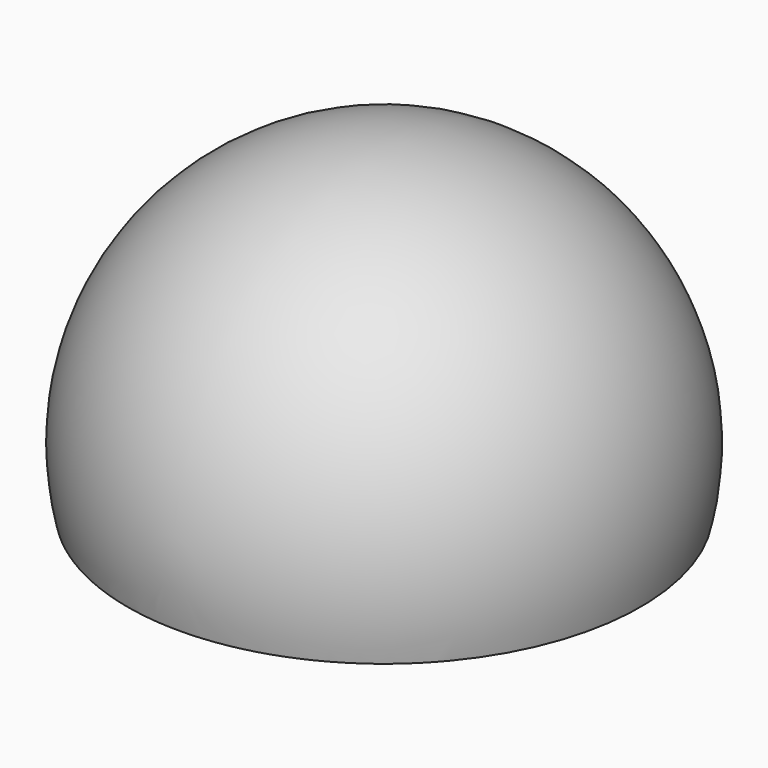
from build123d import *

# Parameters (mm, degrees)
F4_DEPTH  = 30.001
F5_W      = 6
F5_H      = 7
F6_DEPTH  = 13
F7_W      = 38.173924
F7_H      = 20
F8_DEPTH  = 30.001
F9_W      = 3
F9_H      = 3
F10_DEPTH = 7
F11_DEPTH = 30.001


with BuildPart() as f1:
    # F0 (on Right) → F1 (revolve)
    with BuildSketch(Plane.YZ):
        with BuildLine():
            Line((-30, 0), (0, 0))
            ThreePointArc((0, 0), (-15, 15), (-30, 0))
        make_face()
    revolve(axis=Axis((0, -15, 0), (0, -1, 0)))

    # F3 (on offset) → F4 (cut, through all)
    with BuildSketch(Plane.XY.offset(15)):
        with BuildLine():
            Line((15, 0), (0, 0))
            Line((0, 0), (-15, 0))
            ThreePointArc((-15, 0), (0, -3), (15, 0))
        make_face()
    extrude(amount=-F4_DEPTH, mode=Mode.SUBTRACT)

    # F5 (on Front) → F6 (cut)
    with BuildSketch(Plane.XZ):
        Rectangle(F5_W, F5_H)
    extrude(amount=F6_DEPTH, mode=Mode.SUBTRACT)

    # F7 (on Front) → F8 (cut, through all)
    with BuildSketch(Plane.XZ):
        with Locations((0, -13.5)):
            Rectangle(F7_W, F7_H)
    extrude(amount=F8_DEPTH, mode=Mode.SUBTRACT)

    # F9 (on face) → F10 (cut)
    with BuildSketch(Plane(origin=(0, 0, -3.5), x_dir=(1, 0, 0), z_dir=(0, 0, -1))):
        with Locations((-4.5, 11.5)):
            Rectangle(F9_W, F9_H)
        with Locations((4.5, 11.5)):
            Rectangle(F9_W, F9_H)
    extrude(amount=-F10_DEPTH, mode=Mode.SUBTRACT)

    # F7 (on Front) → F11 (cut, through all)
    with BuildSketch(Plane.XZ):
        with Locations((0, -13.5)):
            Rectangle(F7_W, F7_H)
    extrude(amount=F11_DEPTH, mode=Mode.SUBTRACT)


solid = f1.part
